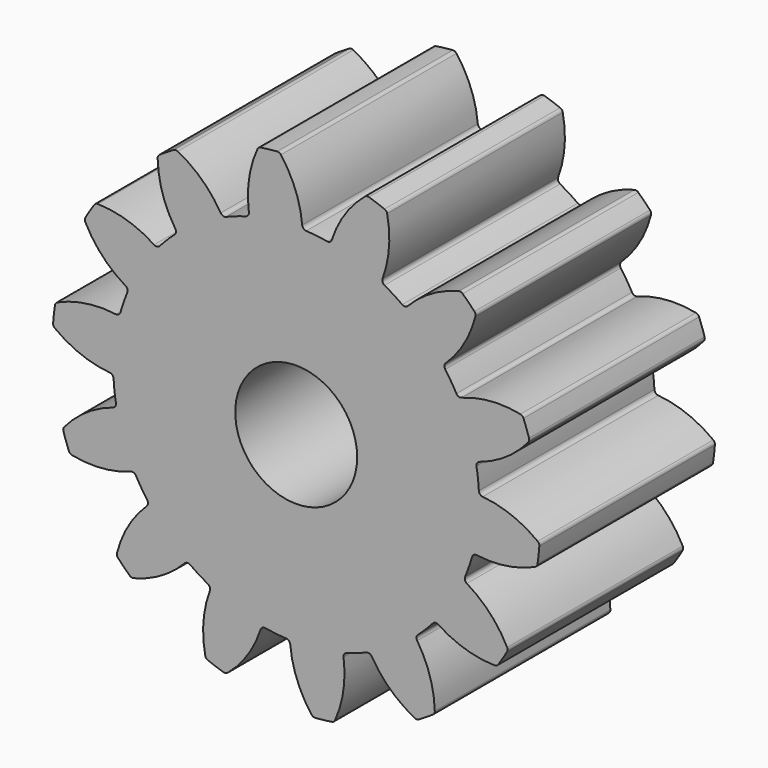
from build123d import *

# Parameters (mm, degrees)
F1_DEPTH = 3.6
F2_R     = 1
F3_DEPTH = 3.601


with BuildPart() as f1:
    # F0 (on Front) → F1 (new body)
    with BuildSketch(Plane.XZ):
        with BuildLine():
            ThreePointArc((0.098425, 3.059087), (-0.012908, 3.534339), (-0.251173, 3.960354))
            ThreePointArc((-0.251173, 3.960354), (-0.278273, 3.981875), (-0.312371, 3.987784))
            ThreePointArc((-0.312371, 3.987784), (-0.447858, 3.974849), (-0.582826, 3.957311))
            ThreePointArc((-0.582826, 3.957311), (-0.614754, 3.943963), (-0.636386, 3.916951))
            ThreePointArc((-0.636386, 3.916951), (-0.77388, 3.448598), (-0.776668, 2.960488))
            ThreePointArc((-0.776668, 2.960488), (-0.787436, 2.912836), (-0.826748, 2.883832))
            ThreePointArc((-0.826748, 2.883832), (-0.990837, 2.83165), (-1.151662, 2.77014))
            ThreePointArc((-1.151662, 2.77014), (-1.596096, 2.540173), (-1.996122, 2.239531))
            ThreePointArc((-1.996122, 2.239531), (-2.12132, 2.12132), (-2.239531, 1.996122))
            ThreePointArc((-2.239531, 1.996122), (-2.540173, 1.596096), (-2.77014, 1.151662))
            ThreePointArc((-2.77014, 1.151662), (-2.83165, 0.990837), (-2.883832, 0.826748))
            ThreePointArc((-2.883832, 0.826748), (-2.981137, 0.335893), (-2.995497, -0.164307))
            ThreePointArc((-2.995497, -0.164307), (-2.981137, -0.335893), (-2.956955, -0.506374))
            ThreePointArc((-2.956955, -0.506374), (-2.83165, -0.990837), (-2.62756, -1.447733))
            ThreePointArc((-2.62756, -1.447733), (-2.540173, -1.596096), (-2.444417, -1.739202))
            ThreePointArc((-2.444417, -1.739202), (-2.12132, -2.12132), (-1.739202, -2.444417))
            ThreePointArc((-1.739202, -2.444417), (-1.596096, -2.540173), (-1.447733, -2.62756))
            ThreePointArc((-1.447733, -2.62756), (-0.990837, -2.83165), (-0.506374, -2.956955))
            ThreePointArc((-0.506374, -2.956955), (-0.335893, -2.981137), (-0.164307, -2.995497))
            ThreePointArc((-0.164307, -2.995497), (0.335893, -2.981137), (0.826748, -2.883832))
            ThreePointArc((0.826748, -2.883832), (0.990837, -2.83165), (1.151662, -2.77014))
            ThreePointArc((1.151662, -2.77014), (1.596096, -2.540173), (1.996122, -2.239531))
            ThreePointArc((1.996122, -2.239531), (2.12132, -2.12132), (2.239531, -1.996122))
            ThreePointArc((2.239531, -1.996122), (2.540173, -1.596096), (2.77014, -1.151662))
            ThreePointArc((2.77014, -1.151662), (2.83165, -0.990837), (2.883832, -0.826748))
            ThreePointArc((2.883832, -0.826748), (2.981137, -0.335893), (2.995497, 0.164307))
            ThreePointArc((2.995497, 0.164307), (2.981137, 0.335893), (2.956955, 0.506374))
            ThreePointArc((2.956955, 0.506374), (2.83165, 0.990837), (2.62756, 1.447733))
            ThreePointArc((2.62756, 1.447733), (2.540173, 1.596096), (2.444417, 1.739202))
            ThreePointArc((2.444417, 1.739202), (2.12132, 2.12132), (1.739202, 2.444417))
            ThreePointArc((1.739202, 2.444417), (1.596096, 2.540173), (1.447733, 2.62756))
            ThreePointArc((1.447733, 2.62756), (0.990837, 2.83165), (0.506374, 2.956955))
            ThreePointArc((0.506374, 2.956955), (0.335893, 2.981137), (0.164307, 2.995497))
            ThreePointArc((0.164307, 2.995497), (0.119527, 3.015026), (0.098425, 3.059087))
        make_face()
        with BuildLine():
            ThreePointArc((-1.996122, 2.239531), (-1.596096, 2.540173), (-1.151662, 2.77014))
            ThreePointArc((-1.151662, 2.77014), (-1.200481, 2.768306), (-1.23861, 2.798847))
            ThreePointArc((-1.23861, 2.798847), (-1.545121, 3.178729), (-1.944632, 3.459175))
            ThreePointArc((-1.944632, 3.459175), (-1.978386, 3.466807), (-2.011671, 3.457337))
            ThreePointArc((-2.011671, 3.457337), (-2.128128, 3.386897), (-2.242121, 3.312536))
            ThreePointArc((-2.242121, 3.312536), (-2.265096, 3.286656), (-2.272865, 3.252933))
            ThreePointArc((-2.272865, 3.252933), (-2.193533, 2.771305), (-1.984261, 2.330324))
            ThreePointArc((-1.984261, 2.330324), (-1.973288, 2.282719), (-1.996122, 2.239531))
        make_face()
        with BuildLine():
            ThreePointArc((-2.995497, -0.164307), (-2.981137, 0.335893), (-2.883832, 0.826748))
            ThreePointArc((-2.883832, 0.826748), (-2.912836, 0.787436), (-2.960488, 0.776668))
            ThreePointArc((-2.960488, 0.776668), (-3.448598, 0.77388), (-3.916951, 0.636386))
            ThreePointArc((-3.916951, 0.636386), (-3.943963, 0.614754), (-3.957311, 0.582826))
            ThreePointArc((-3.957311, 0.582826), (-3.974849, 0.447858), (-3.987784, 0.312371))
            ThreePointArc((-3.987784, 0.312371), (-3.981875, 0.278273), (-3.960354, 0.251173))
            ThreePointArc((-3.960354, 0.251173), (-3.534339, 0.012908), (-3.059087, -0.098425))
            ThreePointArc((-3.059087, -0.098425), (-3.015026, -0.119527), (-2.995497, -0.164307))
        make_face()
        with BuildLine():
            ThreePointArc((-1.739202, -2.444417), (-2.12132, -2.12132), (-2.444417, -1.739202))
            ThreePointArc((-2.444417, -1.739202), (-2.431766, -1.786389), (-2.453058, -1.830358))
            ThreePointArc((-2.453058, -1.830358), (-2.75521, -2.213716), (-2.939725, -2.665615))
            ThreePointArc((-2.939725, -2.665615), (-2.939655, -2.700221), (-2.923015, -2.730565))
            ThreePointArc((-2.923015, -2.730565), (-2.828427, -2.828427), (-2.730565, -2.923015))
            ThreePointArc((-2.730565, -2.923015), (-2.700221, -2.939655), (-2.665615, -2.939725))
            ThreePointArc((-2.665615, -2.939725), (-2.213716, -2.75521), (-1.830358, -2.453058))
            ThreePointArc((-1.830358, -2.453058), (-1.786389, -2.431766), (-1.739202, -2.444417))
        make_face()
        with BuildLine():
            ThreePointArc((-0.506374, -2.956955), (-0.990837, -2.83165), (-1.447733, -2.62756))
            ThreePointArc((-1.447733, -2.62756), (-1.415861, -2.664584), (-1.415966, -2.713437))
            ThreePointArc((-1.415966, -2.713437), (-1.521863, -3.18993), (-1.492034, -3.677135))
            ThreePointArc((-1.492034, -3.677135), (-1.476955, -3.708284), (-1.448798, -3.728402))
            ThreePointArc((-1.448798, -3.728402), (-1.321116, -3.775533), (-1.191905, -3.818293))
            ThreePointArc((-1.191905, -3.818293), (-1.157347, -3.820119), (-1.126137, -3.805168))
            ThreePointArc((-1.126137, -3.805168), (-0.799048, -3.442853), (-0.584754, -3.004291))
            ThreePointArc((-0.584754, -3.004291), (-0.554377, -2.966031), (-0.506374, -2.956955))
        make_face()
        with BuildLine():
            ThreePointArc((0.776668, -2.960488), (0.787436, -2.912836), (0.826748, -2.883832))
            ThreePointArc((0.826748, -2.883832), (0.335893, -2.981137), (-0.164307, -2.995497))
            ThreePointArc((-0.164307, -2.995497), (-0.119527, -3.015026), (-0.098425, -3.059087))
            ThreePointArc((-0.098425, -3.059087), (0.012908, -3.534339), (0.251173, -3.960354))
            ThreePointArc((0.251173, -3.960354), (0.278273, -3.981875), (0.312371, -3.987784))
            ThreePointArc((0.312371, -3.987784), (0.447858, -3.974849), (0.582826, -3.957311))
            ThreePointArc((0.582826, -3.957311), (0.614754, -3.943963), (0.636386, -3.916951))
            ThreePointArc((0.636386, -3.916951), (0.77388, -3.448598), (0.776668, -2.960488))
        make_face()
        with BuildLine():
            ThreePointArc((1.984261, -2.330324), (1.973288, -2.282719), (1.996122, -2.239531))
            ThreePointArc((1.996122, -2.239531), (1.596096, -2.540173), (1.151662, -2.77014))
            ThreePointArc((1.151662, -2.77014), (1.200481, -2.768306), (1.23861, -2.798847))
            ThreePointArc((1.23861, -2.798847), (1.545121, -3.178729), (1.944632, -3.459175))
            ThreePointArc((1.944632, -3.459175), (1.978386, -3.466807), (2.011671, -3.457337))
            ThreePointArc((2.011671, -3.457337), (2.128128, -3.386897), (2.242121, -3.312536))
            ThreePointArc((2.242121, -3.312536), (2.265096, -3.286656), (2.272865, -3.252933))
            ThreePointArc((2.272865, -3.252933), (2.193533, -2.771305), (1.984261, -2.330324))
        make_face()
        with BuildLine():
            ThreePointArc((2.798847, -1.23861), (2.768306, -1.200481), (2.77014, -1.151662))
            ThreePointArc((2.77014, -1.151662), (2.540173, -1.596096), (2.239531, -1.996122))
            ThreePointArc((2.239531, -1.996122), (2.282719, -1.973288), (2.330324, -1.984261))
            ThreePointArc((2.330324, -1.984261), (2.771305, -2.193533), (3.252933, -2.272865))
            ThreePointArc((3.252933, -2.272865), (3.286656, -2.265096), (3.312536, -2.242121))
            ThreePointArc((3.312536, -2.242121), (3.386897, -2.128128), (3.457337, -2.011671))
            ThreePointArc((3.457337, -2.011671), (3.466807, -1.978386), (3.459175, -1.944632))
            ThreePointArc((3.459175, -1.944632), (3.178729, -1.545121), (2.798847, -1.23861))
        make_face()
        with BuildLine():
            ThreePointArc((3.059087, 0.098425), (3.015026, 0.119527), (2.995497, 0.164307))
            ThreePointArc((2.995497, 0.164307), (2.981137, -0.335893), (2.883832, -0.826748))
            ThreePointArc((2.883832, -0.826748), (2.912836, -0.787436), (2.960488, -0.776668))
            ThreePointArc((2.960488, -0.776668), (3.448598, -0.77388), (3.916951, -0.636386))
            ThreePointArc((3.916951, -0.636386), (3.943963, -0.614754), (3.957311, -0.582826))
            ThreePointArc((3.957311, -0.582826), (3.974849, -0.447858), (3.987784, -0.312371))
            ThreePointArc((3.987784, -0.312371), (3.981875, -0.278273), (3.960354, -0.251173))
            ThreePointArc((3.960354, -0.251173), (3.534339, -0.012908), (3.059087, 0.098425))
        make_face()
        with BuildLine():
            ThreePointArc((2.713437, 1.415966), (2.664584, 1.415861), (2.62756, 1.447733))
            ThreePointArc((2.62756, 1.447733), (2.83165, 0.990837), (2.956955, 0.506374))
            ThreePointArc((2.956955, 0.506374), (2.966031, 0.554377), (3.004291, 0.584754))
            ThreePointArc((3.004291, 0.584754), (3.442853, 0.799048), (3.805168, 1.126137))
            ThreePointArc((3.805168, 1.126137), (3.820119, 1.157347), (3.818293, 1.191905))
            ThreePointArc((3.818293, 1.191905), (3.775533, 1.321116), (3.728402, 1.448798))
            ThreePointArc((3.728402, 1.448798), (3.708284, 1.476955), (3.677135, 1.492034))
            ThreePointArc((3.677135, 1.492034), (3.18993, 1.521863), (2.713437, 1.415966))
        make_face()
        with BuildLine():
            ThreePointArc((1.830358, 2.453058), (1.786389, 2.431766), (1.739202, 2.444417))
            ThreePointArc((1.739202, 2.444417), (2.12132, 2.12132), (2.444417, 1.739202))
            ThreePointArc((2.444417, 1.739202), (2.431766, 1.786389), (2.453058, 1.830358))
            ThreePointArc((2.453058, 1.830358), (2.75521, 2.213716), (2.939725, 2.665615))
            ThreePointArc((2.939725, 2.665615), (2.939655, 2.700221), (2.923015, 2.730565))
            ThreePointArc((2.923015, 2.730565), (2.828427, 2.828427), (2.730565, 2.923015))
            ThreePointArc((2.730565, 2.923015), (2.700221, 2.939655), (2.665615, 2.939725))
            ThreePointArc((2.665615, 2.939725), (2.213716, 2.75521), (1.830358, 2.453058))
        make_face()
        with BuildLine():
            ThreePointArc((0.584754, 3.004291), (0.554377, 2.966031), (0.506374, 2.956955))
            ThreePointArc((0.506374, 2.956955), (0.990837, 2.83165), (1.447733, 2.62756))
            ThreePointArc((1.447733, 2.62756), (1.415861, 2.664584), (1.415966, 2.713437))
            ThreePointArc((1.415966, 2.713437), (1.521863, 3.18993), (1.492034, 3.677135))
            ThreePointArc((1.492034, 3.677135), (1.476955, 3.708284), (1.448798, 3.728402))
            ThreePointArc((1.448798, 3.728402), (1.321116, 3.775533), (1.191905, 3.818293))
            ThreePointArc((1.191905, 3.818293), (1.157347, 3.820119), (1.126137, 3.805168))
            ThreePointArc((1.126137, 3.805168), (0.799048, 3.442853), (0.584754, 3.004291))
        make_face()
        with BuildLine():
            ThreePointArc((-2.77014, 1.151662), (-2.540173, 1.596096), (-2.239531, 1.996122))
            ThreePointArc((-2.239531, 1.996122), (-2.282719, 1.973288), (-2.330324, 1.984261))
            ThreePointArc((-2.330324, 1.984261), (-2.771305, 2.193533), (-3.252933, 2.272865))
            ThreePointArc((-3.252933, 2.272865), (-3.286656, 2.265096), (-3.312536, 2.242121))
            ThreePointArc((-3.312536, 2.242121), (-3.386897, 2.128128), (-3.457337, 2.011671))
            ThreePointArc((-3.457337, 2.011671), (-3.466807, 1.978386), (-3.459175, 1.944632))
            ThreePointArc((-3.459175, 1.944632), (-3.178729, 1.545121), (-2.798847, 1.23861))
            ThreePointArc((-2.798847, 1.23861), (-2.768306, 1.200481), (-2.77014, 1.151662))
        make_face()
        with BuildLine():
            ThreePointArc((-2.62756, -1.447733), (-2.83165, -0.990837), (-2.956955, -0.506374))
            ThreePointArc((-2.956955, -0.506374), (-2.966031, -0.554377), (-3.004291, -0.584754))
            ThreePointArc((-3.004291, -0.584754), (-3.442853, -0.799048), (-3.805168, -1.126137))
            ThreePointArc((-3.805168, -1.126137), (-3.820119, -1.157347), (-3.818293, -1.191905))
            ThreePointArc((-3.818293, -1.191905), (-3.775533, -1.321116), (-3.728402, -1.448798))
            ThreePointArc((-3.728402, -1.448798), (-3.708284, -1.476955), (-3.677135, -1.492034))
            ThreePointArc((-3.677135, -1.492034), (-3.18993, -1.521863), (-2.713437, -1.415966))
            ThreePointArc((-2.713437, -1.415966), (-2.664584, -1.415861), (-2.62756, -1.447733))
        make_face()
    extrude(amount=F1_DEPTH)

    # F2 (on face) → F3 (cut, through all)
    with BuildSketch(Plane.XZ.offset(3.6)):
        Circle(F2_R)
    extrude(amount=-F3_DEPTH, mode=Mode.SUBTRACT)


solid = f1.part
